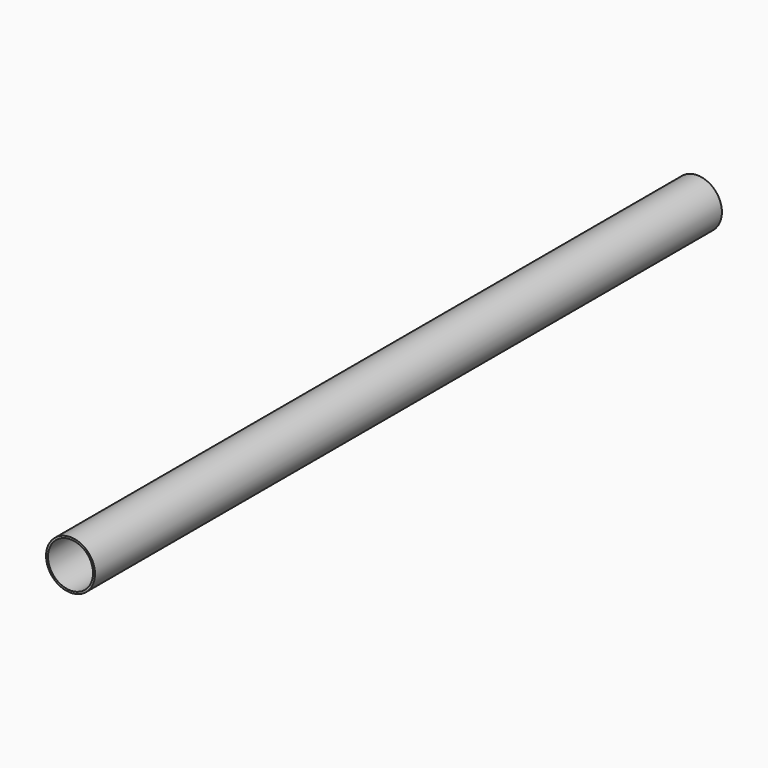
from build123d import *

# Parameters (mm, degrees)
F0_R     = 12.5
F1_DEPTH = 200
F3_D     = 23


with BuildPart() as f1:
    # F0 (on Front) → F1 (new body, symmetric)
    with BuildSketch(Plane.XZ):
        Circle(F0_R)
    extrude(amount=F1_DEPTH, both=True)

    # F3 (through all)
    with Locations(Plane.XZ.offset(200)):
        with Locations((0, 0)):
            Hole(F3_D / 2)


solid = f1.part
